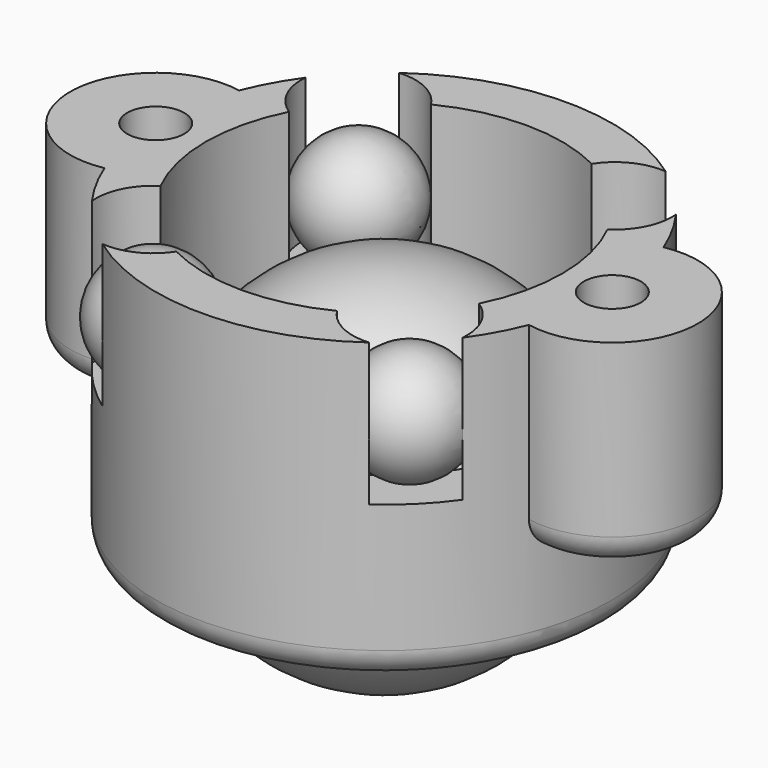
from build123d import *

# Parameters (mm, degrees)
SKETCH_R        = 8
PAD_DEPTH       = 10.5
SKETCH001_R     = 3
PAD001_DEPTH    = 7
SKETCH002_R     = 6.25
POCKET_DEPTH    = 10
SKETCH003_R     = 5.5
POCKET001_DEPTH = 10.501
SKETCH004_R     = 1
POCKET002_DEPTH = 5
SKETCH005_R     = 2
POCKET003_DEPTH = 5
FILLET_R        = 1


with BuildPart() as holder:
    # Sketch → Pad (new body)
    with BuildSketch(Plane.XY):
        Circle(SKETCH_R)
    extrude(amount=-PAD_DEPTH)

    # Sketch001 → Pad001 (join)
    with BuildSketch(Plane.XY):
        with Locations((-8, 0)):
            Circle(SKETCH001_R)
        with Locations((8, 0)):
            Circle(SKETCH001_R)
    extrude(amount=-PAD001_DEPTH)

    # Sketch002 → Pocket (cut)
    with BuildSketch(Plane.XY):
        Circle(SKETCH002_R)
    extrude(amount=-POCKET_DEPTH, mode=Mode.SUBTRACT)

    # Sketch003 → Pocket001 (cut, through all)
    with BuildSketch(Plane.XY):
        Circle(SKETCH003_R)
    extrude(amount=-POCKET001_DEPTH, mode=Mode.SUBTRACT)

    # Sketch004 → Pocket002 (cut)
    with BuildSketch(Plane.XY):
        with Locations((-8, 0)):
            Circle(SKETCH004_R)
        with Locations((8, 0)):
            Circle(SKETCH004_R)
    extrude(amount=-POCKET002_DEPTH, mode=Mode.SUBTRACT)

    # Sketch005 → Pocket003 (cut)
    with BuildSketch(Plane.XY):
        with Locations((-4.5, 4.5)):
            Circle(SKETCH005_R)
        with Locations((4.5, 4.5)):
            Circle(SKETCH005_R)
        with Locations((4.5, -4.5)):
            Circle(SKETCH005_R)
        with Locations((-4.5, -4.5)):
            Circle(SKETCH005_R)
    extrude(amount=-POCKET003_DEPTH, mode=Mode.SUBTRACT)

    # Fillet
    fillet_edges = [holder.edges().sort_by_distance(p)[0] for p in [
        (-8, 0, -10.5),
        (9.912132, -2.311655, -7),
        (9.912132, 2.311655, -7),
        (-11, 0, -7),
    ]]
    fillet(fillet_edges, radius=FILLET_R)


with BuildPart() as mainball:
    # Sketch006 → Revolution (revolve)
    with BuildSketch(Plane.XZ):
        with BuildLine():
            ThreePointArc((0, -6.25), (6.25, 0), (0, 6.25))
            Line((0, -6.25), (0, 6.25))
        make_face()
    revolve(axis=Axis((0, 0, 0), (0, 0, 1)))


with BuildPart() as mainball_1:
    # Body001 placement: moved
    add(mainball.part.moved(Location((0, 0, -8))))


with BuildPart() as smallball1:
    # Sketch007 → Revolution001 (revolve)
    with BuildSketch(Plane.XZ):
        with BuildLine():
            ThreePointArc((0, -2), (2, 0), (0, 2))
            Line((0, -2), (0, 2))
        make_face()
    revolve(axis=Axis((0, 0, 0), (0, 0, 1)))


with BuildPart() as smallball1_1:
    # Body002 placement: moved
    add(smallball1.part.moved(Location((4.5, 4.5, -3))))


with BuildPart() as smallball2:
    # Body003 base: copy of SmallBall1
    add(smallball1_1.part)


with BuildPart() as smallball2_1:
    # Body003 placement: moved
    add(smallball2.part.moved(Location((-9, 0, 0))))


with BuildPart() as smallball3:
    # Body004 base: copy of SmallBall1
    add(smallball1_1.part)


with BuildPart() as smallball3_1:
    # Body004 placement: moved
    add(smallball3.part.moved(Location((0, -9, 0))))


with BuildPart() as smallball4:
    # Body005 base: copy of SmallBall1
    add(smallball1_1.part)


with BuildPart() as smallball4_1:
    # Body005 placement: moved
    add(smallball4.part.moved(Location((-9, -9, 0))))


solid = Compound([holder.part, mainball_1.part, smallball2_1.part, smallball3_1.part, smallball4_1.part])
